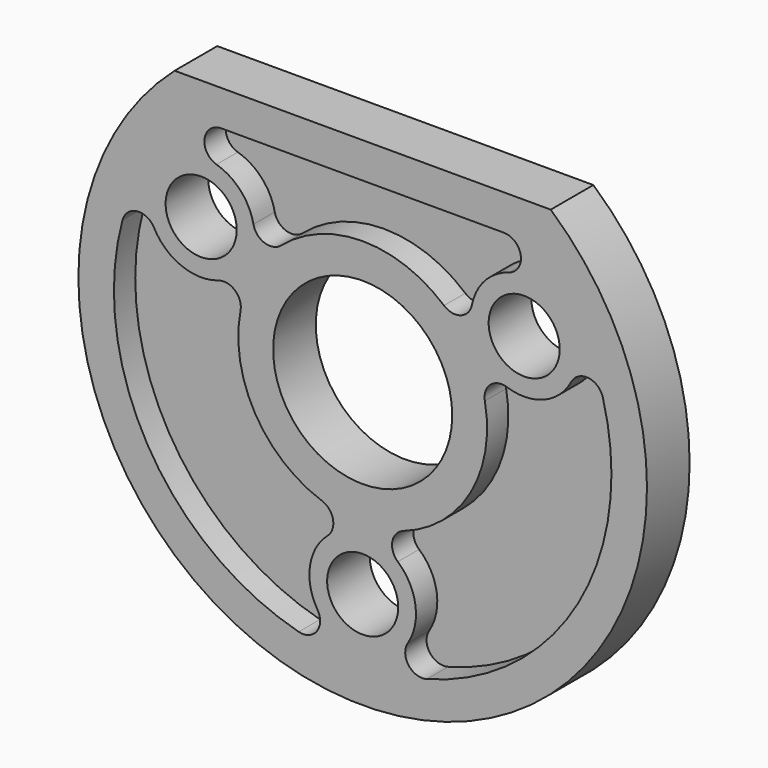
from build123d import *

# Parameters (mm, degrees)
F0_R     = 25.4
F0_R_2   = 3.175
F0_R_3   = 8
F1_DEPTH = 4.7625
F2_W     = 50.561215
F2_H     = 14.34433
F3_DEPTH = 25.4
F5_DEPTH = 2.38125


with BuildPart() as f1:
    # F0 (on Front) → F1 (new body)
    with BuildSketch(Plane.XZ):
        Circle(F0_R)
        with Locations((0, -16.6624)):
            Circle(F0_R_2, mode=Mode.SUBTRACT)
        Circle(F0_R_3, mode=Mode.SUBTRACT)
        with Locations((-14.430062, 8.3312)):
            Circle(F0_R_2, mode=Mode.SUBTRACT)
        with Locations((14.430062, 8.3312)):
            Circle(F0_R_2, mode=Mode.SUBTRACT)
    extrude(amount=F1_DEPTH)

    # F2 (on face) → F3 (cut)
    with BuildSketch(Plane.XZ.offset(4.7625)):
        with Locations((0.75591, 26.222165)):
            Rectangle(F2_W, F2_H)
    extrude(amount=-F3_DEPTH, mode=Mode.SUBTRACT)

    # F4 (on face) → F5 (cut)
    with BuildSketch(Plane.XZ.offset(4.7625)):
        with BuildLine():
            ThreePointArc((-3.646079, -10.497322), (-9.623707, -5.55625), (-10.913987, 2.091064))
            ThreePointArc((-10.913987, 2.091064), (-11.409826, 3.527057), (-12.900289, 3.821078))
            ThreePointArc((-12.900289, 3.821078), (-16.190201, 3.905896), (-18.639619, 6.103863))
            ThreePointArc((-18.639619, 6.103863), (-20.156405, 6.905634), (-21.458089, 5.788007))
            ThreePointArc((-21.458089, 5.788007), (-19.247415, -11.1125), (-5.716484, -21.477254))
            ThreePointArc((-5.716484, -21.477254), (-4.097748, -20.908775), (-4.033709, -19.194315))
            ThreePointArc((-4.033709, -19.194315), (-4.712495, -15.974073), (-3.140994, -13.082517))
            ThreePointArc((-3.140994, -13.082517), (-2.650392, -11.644727), (-3.646079, -10.497322))
        make_face()
        with BuildLine():
            ThreePointArc((-7.267908, 8.406258), (0, 11.1125), (7.267908, 8.406258))
            ThreePointArc((7.267908, 8.406258), (8.759433, 8.11767), (9.759295, 9.261439))
            ThreePointArc((9.759295, 9.261439), (10.905182, 11.533797), (13.057597, 12.891655))
            ThreePointArc((13.057597, 12.891655), (14.126157, 14.572961), (12.618408, 15.875))
            Line((12.618408, 15.875), (-12.618408, 15.875))
            ThreePointArc((-12.618408, 15.875), (-14.126157, 14.572961), (-13.057597, 12.891655))
            ThreePointArc((-13.057597, 12.891655), (-10.905182, 11.533797), (-9.759295, 9.261439))
            ThreePointArc((-9.759295, 9.261439), (-8.759433, 8.11767), (-7.267908, 8.406258))
        make_face()
        with BuildLine():
            ThreePointArc((10.913987, 2.091064), (9.623707, -5.55625), (3.646079, -10.497322))
            ThreePointArc((3.646079, -10.497322), (2.650392, -11.644727), (3.140994, -13.082517))
            ThreePointArc((3.140994, -13.082517), (4.712495, -15.974073), (4.033709, -19.194315))
            ThreePointArc((4.033709, -19.194315), (4.097748, -20.908775), (5.716484, -21.477254))
            ThreePointArc((5.716484, -21.477254), (19.247415, -11.1125), (21.458089, 5.788007))
            ThreePointArc((21.458089, 5.788007), (20.156405, 6.905634), (18.639619, 6.103863))
            ThreePointArc((18.639619, 6.103863), (16.190201, 3.905896), (12.900289, 3.821078))
            ThreePointArc((12.900289, 3.821078), (11.409826, 3.527057), (10.913987, 2.091064))
        make_face()
    extrude(amount=-F5_DEPTH, mode=Mode.SUBTRACT)


solid = f1.part
